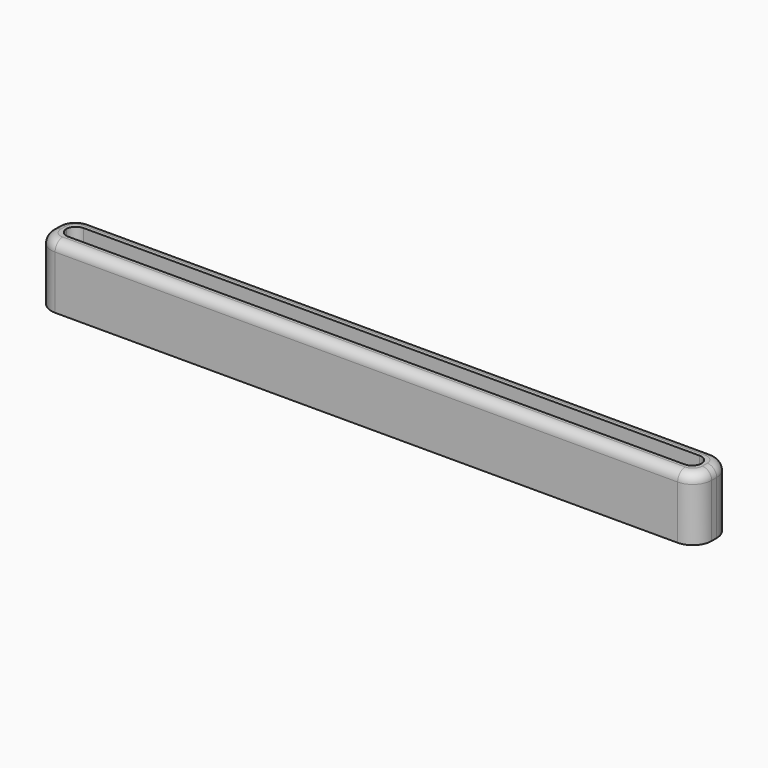
from build123d import *

# Parameters (mm, degrees)
F0_W     = 105
F0_H     = 7
F1_DEPTH = 2
F2_DEPTH = 10
F3_R     = 3
F4_R     = 1.5


with BuildPart() as f1:
    # F0 (on Top) → F1 (new body)
    with BuildSketch(Plane.XY):
        Rectangle(F0_W, F0_H)
        with BuildLine():
            ThreePointArc((-50.5, 0), (-50.0606601718, 1.0606601718), (-49, 1.5))
            Line((-49, 1.5), (49, 1.5))
            ThreePointArc((49, 1.5), (50.0606601718, 1.0606601718), (50.5, 0))
            ThreePointArc((50.5, 0), (50.0606601718, -1.0606601718), (49, -1.5))
            Line((49, -1.5), (-49, -1.5))
            ThreePointArc((-49, -1.5), (-50.0606601718, -1.0606601718), (-50.5, 0))
        make_face(mode=Mode.SUBTRACT)
        with BuildLine():
            Line((49, 1.5), (-49, 1.5))
            ThreePointArc((-49, 1.5), (-50.0606601718, 1.0606601718), (-50.5, 0))
            ThreePointArc((-50.5, 0), (-50.0606601718, -1.0606601718), (-49, -1.5))
            Line((-49, -1.5), (49, -1.5))
            ThreePointArc((49, -1.5), (50.0606601718, -1.0606601718), (50.5, 0))
            ThreePointArc((50.5, 0), (50.0606601718, 1.0606601718), (49, 1.5))
        make_face()
    extrude(amount=F1_DEPTH)

    # F0 (on Top) → F2 (join)
    with BuildSketch(Plane.XY):
        Rectangle(F0_W, F0_H)
        with BuildLine():
            ThreePointArc((-50.5, 0), (-50.0606601718, 1.0606601718), (-49, 1.5))
            Line((-49, 1.5), (49, 1.5))
            ThreePointArc((49, 1.5), (50.0606601718, 1.0606601718), (50.5, 0))
            ThreePointArc((50.5, 0), (50.0606601718, -1.0606601718), (49, -1.5))
            Line((49, -1.5), (-49, -1.5))
            ThreePointArc((-49, -1.5), (-50.0606601718, -1.0606601718), (-50.5, 0))
        make_face(mode=Mode.SUBTRACT)
    extrude(amount=F2_DEPTH)

    # F3
    f3_edges = [f1.edges().sort_by_distance(p)[0] for p in [
        (-52.5, -3.5, 5),
        (52.5, -3.5, 5),
        (52.5, 3.5, 5),
        (-52.5, 3.5, 5),
    ]]
    fillet(f3_edges, radius=F3_R)

    # F4
    f4_edges = [f1.edges().sort_by_distance(p)[0] for p in [
        (0, 3.5, 10),
    ]]
    fillet(f4_edges, radius=F4_R)


solid = f1.part
